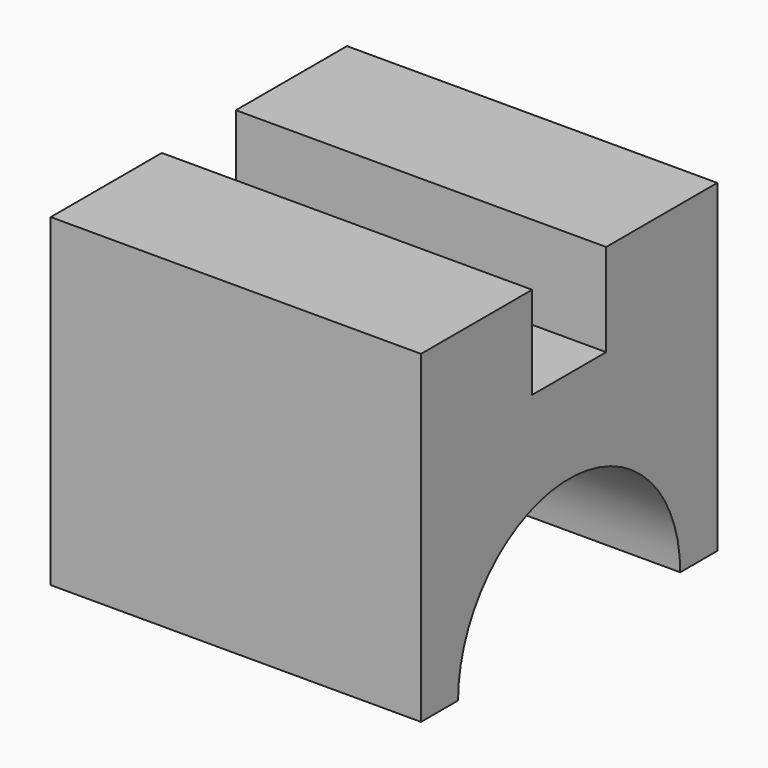
from build123d import *

# Parameters (mm, degrees)
F0_W     = 40
F0_H     = 35
F1_DEPTH = 20
F3_DEPTH = 100
F2_W     = 10
F2_H     = 10
F4_DEPTH = 40.001


with BuildPart() as f1:
    # F0 (on Front) → F1 (new body, symmetric)
    with BuildSketch(Plane.XZ):
        with Locations((0, 17.5)):
            Rectangle(F0_W, F0_H)
    extrude(amount=F1_DEPTH, both=True)

    # F2 (on face) → F3 (cut, symmetric)
    with BuildSketch(Plane(origin=(-20, 0, 0), x_dir=(0, -1, 0), z_dir=(-1, 0, 0))):
        with BuildLine():
            Line((-15, 0), (15, 0))
            ThreePointArc((15, 0), (0, 15), (-15, 0))
        make_face()
    extrude(amount=F3_DEPTH, both=True, mode=Mode.SUBTRACT)

    # F2 (on face) → F4 (cut, through all)
    with BuildSketch(Plane(origin=(-20, 0, 0), x_dir=(0, -1, 0), z_dir=(-1, 0, 0))):
        with Locations((0, 30)):
            Rectangle(F2_W, F2_H)
    extrude(amount=-F4_DEPTH, mode=Mode.SUBTRACT)


solid = f1.part
